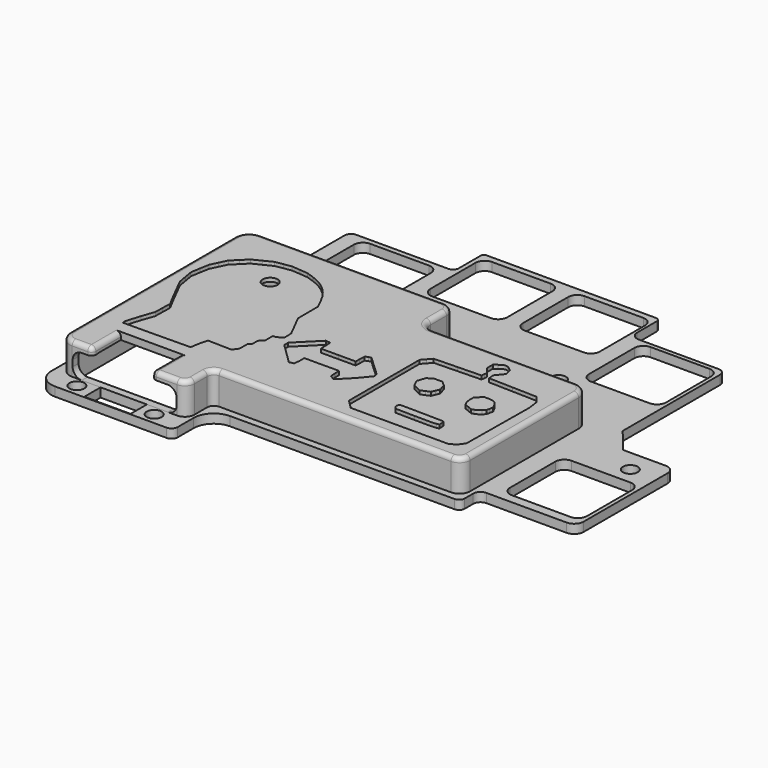
from build123d import *

# Parameters (mm, degrees)
SKETCH_R        = 1.65
SKETCH_W        = 10.23
SKETCH_H        = 4.5
PAD005_DEPTH    = 2
PAD006_DEPTH    = 7
POCKET001_DEPTH = 7.4
SKETCH014_W     = 13.165012
SKETCH014_H     = 8.795712
POCKET002_DEPTH = 2
SKETCH015_R     = 1.65
POCKET003_DEPTH = 2
POCKET004_DEPTH = 2
FILLET004_R     = 1
FILLET005_R     = 1
FILLET006_R     = 1
POCKET005_DEPTH = 0.8
POCKET006_DEPTH = 0.8
POCKET007_DEPTH = 0.8


with BuildPart() as part:
    # Sketch → Pad005 (new body)
    with BuildSketch(Plane.XY):
        with BuildLine():
            Line((-49.610863, 7.214964), (-49.610863, 25.112694))
            ThreePointArc((-48.178773, 26.544784), (-49.191414, 26.125334), (-49.610863, 25.112694))
            Line((-48.178773, 26.544784), (-27.808412, 26.544784))
            ThreePointArc((-27.808412, 26.544784), (-26.912185, 26.916014), (-26.540955, 27.812241))
            Line((-26.540955, 27.812241), (-26.540955, 33.930279))
            ThreePointArc((-25.87702, 34.594214), (-26.346493, 34.399752), (-26.540955, 33.930279))
            Line((-25.87702, 34.594214), (11.597838, 34.594214))
            ThreePointArc((12.512121, 33.679931), (12.244334, 34.326427), (11.597838, 34.594214))
            Line((12.512121, 33.679931), (12.512121, 28.263099))
            ThreePointArc((12.512121, 28.263099), (13.049695, 26.96528), (14.347514, 26.427706))
            Line((14.347514, 26.427706), (32.003551, 26.427706))
            ThreePointArc((33.520552, 24.910705), (33.076233, 25.983387), (32.003551, 26.427706))
            Line((33.520552, 24.910705), (33.520552, -1.974196))
            Line((33.520552, -1.974196), (38.002038, -7.483418))
            Line((38.002038, -7.483418), (47.421181, -7.483418))
            ThreePointArc((49.44413, -9.506367), (48.851622, -8.075926), (47.421181, -7.483418))
            Line((49.44413, -9.506367), (49.44413, -32.682031))
            ThreePointArc((47.368229, -34.757932), (48.836113, -34.149915), (49.44413, -32.682031))
            Line((47.368229, -34.757932), (29.607009, -34.757932))
            ThreePointArc((29.607009, -34.757932), (28.471434, -35.228303), (28.001063, -36.363878))
            Line((28.001063, -36.363878), (28.001063, -38.722614))
            ThreePointArc((26.753086, -39.970591), (27.635539, -39.605067), (28.001063, -38.722614))
            Line((26.753086, -39.970591), (-22.857236, -39.970591))
            ThreePointArc((-22.857236, -39.970591), (-26.03119, -41.285286), (-27.345885, -44.459241))
            Line((-27.345885, -44.459241), (-27.345885, -48.820324))
            ThreePointArc((-28.718373, -50.192812), (-27.747877, -49.79082), (-27.345885, -48.820324))
            Line((-28.718373, -50.192812), (-53.401439, -50.192812))
            ThreePointArc((-57.461259, -46.132992), (-56.272165, -49.003718), (-53.401439, -50.192812))
            Line((-57.461259, -46.132992), (-57.461259, 3.345083))
            ThreePointArc((-53.591378, 7.214964), (-56.327797, 6.081502), (-57.461259, 3.345083))
            Line((-53.591378, 7.214964), (-49.610863, 7.214964))
        make_face()
        with Locations((-33.495979, -47.631935)):
            Circle(SKETCH_R, mode=Mode.SUBTRACT)
        with Locations((-50.583614, -47.630238)):
            Circle(SKETCH_R, mode=Mode.SUBTRACT)
        with Locations((-25.119429, 12.315305)):
            Circle(SKETCH_R, mode=Mode.SUBTRACT)
        with Locations((-5.602204, 2.953984)):
            Circle(SKETCH_R, mode=Mode.SUBTRACT)
        with Locations((12.850342, 6.121297)):
            Circle(SKETCH_R, mode=Mode.SUBTRACT)
        with Locations((43.548248, -12.411167)):
            Circle(SKETCH_R, mode=Mode.SUBTRACT)
        with BuildLine():
            Line((-25.569097, 31.246939), (-25.569097, 18.746939))
            ThreePointArc((-25.569097, 18.746939), (-24.983311, 17.332725), (-23.569097, 16.746939))
            Line((-23.569097, 16.746939), (-10.569097, 16.746939))
            ThreePointArc((-10.569097, 16.746939), (-9.154883, 17.332725), (-8.569097, 18.746939))
            Line((-8.569097, 18.746939), (-8.569097, 31.246939))
            ThreePointArc((-8.569097, 31.246939), (-9.154883, 32.661153), (-10.569097, 33.246939))
            Line((-10.569097, 33.246939), (-23.569097, 33.246939))
            ThreePointArc((-23.569097, 33.246939), (-24.983311, 32.661153), (-25.569097, 31.246939))
        make_face(mode=Mode.SUBTRACT)
        with BuildLine():
            Line((-5.091705, 31.241793), (-5.091705, 18.741793))
            ThreePointArc((-5.091705, 18.741793), (-4.505919, 17.327579), (-3.091705, 16.741793))
            Line((-3.091705, 16.741793), (9.908295, 16.741793))
            ThreePointArc((9.908295, 16.741793), (11.322509, 17.327579), (11.908295, 18.741793))
            Line((11.908295, 18.741793), (11.908295, 31.241793))
            ThreePointArc((11.908295, 31.241793), (11.322509, 32.656007), (9.908295, 33.241793))
            Line((9.908295, 33.241793), (-3.091705, 33.241793))
            ThreePointArc((-3.091705, 33.241793), (-4.505919, 32.656007), (-5.091705, 31.241793))
        make_face(mode=Mode.SUBTRACT)
        with BuildLine():
            Line((15.715605, 23.508312), (15.715605, 11.008312))
            ThreePointArc((15.715605, 11.008312), (16.301391, 9.594098), (17.715605, 9.008312))
            Line((17.715605, 9.008312), (30.715605, 9.008312))
            ThreePointArc((30.715605, 9.008312), (32.129819, 9.594098), (32.715605, 11.008312))
            Line((32.715605, 11.008312), (32.715605, 23.508312))
            ThreePointArc((32.715605, 23.508312), (32.129819, 24.922526), (30.715605, 25.508312))
            Line((30.715605, 25.508312), (17.715605, 25.508312))
            ThreePointArc((17.715605, 25.508312), (16.301391, 24.922526), (15.715605, 23.508312))
        make_face(mode=Mode.SUBTRACT)
        with BuildLine():
            Line((31.597702, -18.197321), (31.597702, -30.697321))
            ThreePointArc((31.597702, -30.697321), (32.183488, -32.111535), (33.597702, -32.697321))
            Line((33.597702, -32.697321), (46.597702, -32.697321))
            ThreePointArc((46.597702, -32.697321), (48.011916, -32.111535), (48.597702, -30.697321))
            Line((48.597702, -30.697321), (48.597702, -18.197321))
            ThreePointArc((48.597702, -18.197321), (48.011916, -16.783107), (46.597702, -16.197321))
            Line((46.597702, -16.197321), (33.597702, -16.197321))
            ThreePointArc((33.597702, -16.197321), (32.183488, -16.783107), (31.597702, -18.197321))
        make_face(mode=Mode.SUBTRACT)
        with BuildLine():
            Line((-46.207882, 23.417641), (-46.207882, 10.917641))
            ThreePointArc((-46.207882, 10.917641), (-45.622096, 9.503427), (-44.207882, 8.917641))
            Line((-44.207882, 8.917641), (-31.207882, 8.917641))
            ThreePointArc((-31.207882, 8.917641), (-29.793668, 9.503427), (-29.207882, 10.917641))
            Line((-29.207882, 10.917641), (-29.207882, 23.417641))
            ThreePointArc((-29.207882, 23.417641), (-29.793668, 24.831855), (-31.207882, 25.417641))
            Line((-31.207882, 25.417641), (-44.207882, 25.417641))
            ThreePointArc((-44.207882, 25.417641), (-45.622096, 24.831855), (-46.207882, 23.417641))
        make_face(mode=Mode.SUBTRACT)
        with Locations((-41.897928, -47.794848)):
            Rectangle(SKETCH_W, SKETCH_H, mode=Mode.SUBTRACT)
    extrude(amount=PAD005_DEPTH)

    # Sketch012 (on Face83 of Pad005) → Pad006 (join)
    with BuildSketch(Plane.XY.offset(2)):
        with BuildLine():
            Line((-55.983754, -42.848348), (-55.983754, 2.609413))
            ThreePointArc((-52.704333, 5.888834), (-55.023234, 4.928314), (-55.983754, 2.609413))
            Line((-52.704333, 5.888834), (-12.167265, 5.888834))
            ThreePointArc((-9.912146, 3.633715), (-10.572655, 5.228325), (-12.167265, 5.888834))
            Line((-9.912146, 3.633715), (-9.912146, -0.730246))
            ThreePointArc((-9.912146, -0.730246), (-9.159025, -2.548441), (-7.34083, -3.301562))
            Line((-7.34083, -3.301562), (24.292931, -3.301562))
            ThreePointArc((27.059417, -6.068049), (26.249132, -4.111847), (24.292931, -3.301562))
            Line((27.059417, -6.068049), (27.059417, -36.048945))
            ThreePointArc((24.708691, -38.399671), (26.370906, -37.71116), (27.059417, -36.048945))
            Line((24.708691, -38.399671), (-26.508307, -38.399671))
            ThreePointArc((-26.508307, -38.399671), (-27.553711, -38.832692), (-27.986731, -39.878095))
            Line((-27.986731, -39.878095), (-27.986731, -43.400929))
            ThreePointArc((-30.114702, -45.5289), (-28.609999, -44.905632), (-27.986731, -43.400929))
            Line((-53.303202, -45.5289), (-30.114702, -45.5289))
            ThreePointArc((-55.983754, -42.848348), (-55.198638, -44.743784), (-53.303202, -45.5289))
        make_face()
    extrude(amount=PAD006_DEPTH)

    # Sketch013 (on Face4 of Pad006) → Pocket001 (cut)
    with BuildSketch(Plane(origin=(0, 0, 0), x_dir=(1, 0, 0), z_dir=(0, 0, -1))):
        Polygon((-51.690899, 43.905302), (-54.332726, 43.905302), (-54.332726, -4.368984), (-11.493267, -4.368984), (-11.493267, 4.906889), (25.520232, 4.906889), (25.520232, 36.730296), (-29.689493, 36.730296), (-29.689493, 43.905302), align=None)
    extrude(amount=-POCKET001_DEPTH, mode=Mode.SUBTRACT)

    # Sketch014 (on Face110 of Pocket001) → Pocket002 (cut)
    with BuildSketch(Plane.XY.offset(9)):
        with Locations((-42.274277, -42.0399)):
            Rectangle(SKETCH014_W, SKETCH014_H)
    extrude(amount=-POCKET002_DEPTH, mode=Mode.SUBTRACT)

    # Sketch015 (on Face113 of Pocket002) → Pocket003 (cut)
    with BuildSketch(Plane.XY.offset(9)):
        with Locations((-41.294807, -5.844272)):
            Circle(SKETCH015_R)
    extrude(amount=-POCKET003_DEPTH, mode=Mode.SUBTRACT)

    # Sketch016 (on Face94 of Pocket003) → Pocket004 (cut)
    with BuildSketch(Plane.XZ.offset(45.5289)):
        with BuildLine():
            Line((-53.204343, 5.334337), (-53.204343, 3.981198))
            ThreePointArc((-53.204343, 3.981198), (-52.618556, 2.566984), (-51.204343, 1.981198))
            Line((-51.204343, 1.981198), (-32.204343, 1.981198))
            ThreePointArc((-32.204343, 1.981198), (-30.790129, 2.566984), (-30.204343, 3.981198))
            Line((-30.204343, 3.981198), (-30.204343, 5.334337))
            ThreePointArc((-30.204343, 5.334337), (-30.790129, 6.74855), (-32.204343, 7.334337))
            Line((-32.204343, 7.334337), (-51.204343, 7.334337))
            ThreePointArc((-51.204343, 7.334337), (-52.618556, 6.74855), (-53.204343, 5.334337))
        make_face()
    extrude(amount=-POCKET004_DEPTH, mode=Mode.SUBTRACT)

    # Fillet004
    fillet004_edges = [part.edges().sort_by_distance(p)[0] for p in [
        (-48.856783, -45.5289, 8.167168),
    ]]
    fillet(fillet004_edges, radius=FILLET004_R)

    # Fillet005
    fillet005_edges = [part.edges().sort_by_distance(p)[0] for p in [
        (-35.691771, -45.5289, 8.167168),
    ]]
    fillet(fillet005_edges, radius=FILLET005_R)

    # Fillet006
    fillet006_edges = [part.edges().sort_by_distance(p)[0] for p in [
        (-0.899808, -38.399671, 9),
    ]]
    fillet(fillet006_edges, radius=FILLET006_R)

    # Sketch020 (on Face1 of Fillet006) → Pocket005 (cut)
    with BuildSketch(Plane.XY.offset(9)):
        with BuildLine():
            add(Edge.make_bspline(
                [(-42.7549, -0.380123), (-44.4451, -0.656723)],
                knots=[0, 0, 1, 1], degree=1))
            add(Edge.make_bspline(
                [(-44.4451, -0.656723), (-46.3507, -1.60946)],
                knots=[0, 0, 1, 1], degree=1))
            add(Edge.make_bspline(
                [(-46.3507, -1.60946), (-48.2561, -2.53154)],
                knots=[0, 0, 1, 1], degree=1))
            add(Edge.make_bspline(
                [(-48.2561, -2.53154), (-49.6391, -3.91457)],
                knots=[0, 0, 1, 1], degree=1))
            add(Edge.make_bspline(
                [(-49.6391, -3.91457), (-51.0221, -5.26685)],
                knots=[0, 0, 1, 1], degree=1))
            add(Edge.make_bspline(
                [(-51.0221, -5.26685), (-51.8214, -6.92652)],
                knots=[0, 0, 1, 1], degree=1))
            add(Edge.make_bspline(
                [(-51.8214, -6.92652), (-52.6203, -8.58609)],
                knots=[0, 0, 1, 1], degree=1))
            add(Edge.make_bspline(
                [(-52.6203, -8.58609), (-52.9892, -10.6145)],
                knots=[0, 0, 1, 1], degree=1))
            add(Edge.make_bspline(
                [(-52.9892, -10.6145), (-53.3272, -12.6429)],
                knots=[0, 0, 1, 1], degree=1))
            add(Edge.make_bspline(
                [(-53.3272, -12.6429), (-52.9892, -14.6098)],
                knots=[0, 0, 1, 1], degree=1))
            add(Edge.make_bspline(
                [(-52.9892, -14.6098), (-52.6511, -16.5767)],
                knots=[0, 0, 1, 1], degree=1))
            add(Edge.make_bspline(
                [(-52.6511, -16.5767), (-51.7598, -18.3594)],
                knots=[0, 0, 1, 1], degree=1))
            add(Edge.make_bspline(
                [(-51.7598, -18.3594), (-51.2682, -19.3736), (-50.4075, -21.0641), (-49.8237, -22.1704)],
                knots=[0, 0, 0, 0, 1, 1, 1, 1], degree=3))
            add(Edge.make_bspline(
                [(-49.8237, -22.1704), (-48.7479, -24.168)],
                knots=[0, 0, 1, 1], degree=1))
            add(Edge.make_bspline(
                [(-48.7479, -24.168), (-48.8094, -26.1659)],
                knots=[0, 0, 1, 1], degree=1))
            add(Edge.make_bspline(
                [(-48.8094, -26.1659), (-48.8402, -28.1635)],
                knots=[0, 0, 1, 1], degree=1))
            add(Edge.make_bspline(
                [(-48.8402, -28.1635), (-49.7928, -30.8988)],
                knots=[0, 0, 1, 1], degree=1))
            add(Edge.make_bspline(
                [(-49.7928, -30.8988), (-50.3153, -32.4355), (-50.7456, -33.9109), (-50.7456, -34.2181)],
                knots=[0, 0, 0, 0, 1, 1, 1, 1], degree=3))
            add(Edge.make_bspline(
                [(-50.7456, -34.2181), (-50.7456, -34.7713)],
                knots=[0, 0, 1, 1], degree=1))
            add(Edge.make_bspline(
                [(-50.7456, -34.7713), (-43.2773, -34.7098)],
                knots=[0, 0, 1, 1], degree=1))
            add(Edge.make_bspline(
                [(-43.2773, -34.7098), (-35.8396, -34.6176)],
                knots=[0, 0, 1, 1], degree=1))
            add(Edge.make_bspline(
                [(-35.8396, -34.6176), (-35.7475, -33.8493)],
                knots=[0, 0, 1, 1], degree=1))
            add(Edge.make_bspline(
                [(-35.7475, -33.8493), (-35.7166, -33.419), (-35.5323, -32.5584), (-35.3786, -31.9437)],
                knots=[0, 0, 0, 0, 1, 1, 1, 1], degree=3))
            add(Edge.make_bspline(
                [(-35.3786, -31.9437), (-35.0714, -30.8067)],
                knots=[0, 0, 1, 1], degree=1))
            add(Edge.make_bspline(
                [(-35.0714, -30.8067), (-32.4282, -30.868)],
                knots=[0, 0, 1, 1], degree=1))
            add(Edge.make_bspline(
                [(-32.4282, -30.868), (-29.8157, -30.9295)],
                knots=[0, 0, 1, 1], degree=1))
            add(Edge.make_bspline(
                [(-29.8157, -30.9295), (-29.3548, -30.3456)],
                knots=[0, 0, 1, 1], degree=1))
            add(Edge.make_bspline(
                [(-29.3548, -30.3456), (-28.9246, -29.731)],
                knots=[0, 0, 1, 1], degree=1))
            add(Edge.make_bspline(
                [(-28.9246, -29.731), (-28.9246, -28.5938)],
                knots=[0, 0, 1, 1], degree=1))
            add(Edge.make_bspline(
                [(-28.9246, -28.5938), (-28.9246, -27.4259)],
                knots=[0, 0, 1, 1], degree=1))
            add(Edge.make_bspline(
                [(-28.9246, -27.4259), (-28.6171, -27.2414)],
                knots=[0, 0, 1, 1], degree=1))
            add(Edge.make_bspline(
                [(-28.6171, -27.2414), (-28.3099, -27.0571)],
                knots=[0, 0, 1, 1], degree=1))
            add(Edge.make_bspline(
                [(-28.3099, -27.0571), (-28.3099, -26.2888)],
                knots=[0, 0, 1, 1], degree=1))
            add(Edge.make_bspline(
                [(-28.3099, -26.2888), (-28.3099, -25.5204)],
                knots=[0, 0, 1, 1], degree=1))
            add(Edge.make_bspline(
                [(-28.3099, -25.5204), (-27.8488, -25.0595)],
                knots=[0, 0, 1, 1], degree=1))
            add(Edge.make_bspline(
                [(-27.8488, -25.0595), (-27.3878, -24.5984)],
                knots=[0, 0, 1, 1], degree=1))
            add(Edge.make_bspline(
                [(-27.3878, -24.5984), (-27.3878, -23.5228)],
                knots=[0, 0, 1, 1], degree=1))
            add(Edge.make_bspline(
                [(-27.3878, -23.5228), (-27.3878, -22.4777)],
                knots=[0, 0, 1, 1], degree=1))
            add(Edge.make_bspline(
                [(-27.3878, -22.4777), (-26.9882, -22.4777)],
                knots=[0, 0, 1, 1], degree=1))
            add(Edge.make_bspline(
                [(-26.9882, -22.4777), (-26.7732, -22.4777), (-26.3429, -22.2934), (-26.0047, -22.0475)],
                knots=[0, 0, 0, 0, 1, 1, 1, 1], degree=3))
            add(Edge.make_bspline(
                [(-26.0047, -22.0475), (-25.4515, -21.6478)],
                knots=[0, 0, 1, 1], degree=1))
            add(Edge.make_bspline(
                [(-25.4515, -21.6478), (-25.4823, -20.7258)],
                knots=[0, 0, 1, 1], degree=1))
            add(Edge.make_bspline(
                [(-25.4823, -20.7258), (-25.5129, -19.7731)],
                knots=[0, 0, 1, 1], degree=1))
            add(Edge.make_bspline(
                [(-25.5129, -19.7731), (-26.8038, -17.2222)],
                knots=[0, 0, 1, 1], degree=1))
            add(Edge.make_bspline(
                [(-26.8038, -17.2222), (-28.1254, -14.6405)],
                knots=[0, 0, 1, 1], degree=1))
            add(Edge.make_bspline(
                [(-28.1254, -14.6405), (-28.1561, -11.8745)],
                knots=[0, 0, 1, 1], degree=1))
            add(Edge.make_bspline(
                [(-28.1561, -11.8745), (-28.1561, -9.10859)],
                knots=[0, 0, 1, 1], degree=1))
            add(Edge.make_bspline(
                [(-28.1561, -9.10859), (-28.9861, -7.35669)],
                knots=[0, 0, 1, 1], degree=1))
            add(Edge.make_bspline(
                [(-28.9861, -7.35669), (-30.5228, -4.09893), (-32.7047, -2.03975), (-35.7782, -0.964083)],
                knots=[0, 0, 0, 0, 1, 1, 1, 1], degree=3))
            add(Edge.make_bspline(
                [(-35.7782, -0.964083), (-37.3763, -0.410873)],
                knots=[0, 0, 1, 1], degree=1))
            add(Edge.make_bspline(
                [(-37.3763, -0.410873), (-39.2204, -0.257203)],
                knots=[0, 0, 1, 1], degree=1))
            add(Edge.make_bspline(
                [(-39.2204, -0.257203), (-41.0644, -0.103523)],
                knots=[0, 0, 1, 1], degree=1))
            add(Edge.make_bspline(
                [(-41.0644, -0.103523), (-42.7549, -0.380123)],
                knots=[0, 0, 1, 1], degree=1))
        make_face()
    extrude(amount=-POCKET005_DEPTH, mode=Mode.SUBTRACT)

    # Sketch021 (on Face1 of Fillet006) → Pocket006 (cut)
    with BuildSketch(Plane.XY.offset(9)):
        with BuildLine():
            add(Edge.make_bspline(
                [(-21.4463, -20.4522), (-23.7717, -22.7777)],
                knots=[0, 0, 1, 1], degree=1))
            add(Edge.make_bspline(
                [(-23.7717, -22.7777), (-23.7717, -23.3327)],
                knots=[0, 0, 1, 1], degree=1))
            add(Edge.make_bspline(
                [(-23.7717, -23.3327), (-23.7717, -23.8611)],
                knots=[0, 0, 1, 1], degree=1))
            add(Edge.make_bspline(
                [(-23.7717, -23.8611), (-21.4198, -26.1602)],
                knots=[0, 0, 1, 1], degree=1))
            add(Edge.make_bspline(
                [(-21.4198, -26.1602), (-19.068, -28.4593)],
                knots=[0, 0, 1, 1], degree=1))
            add(Edge.make_bspline(
                [(-19.068, -28.4593), (-18.645, -28.3008)],
                knots=[0, 0, 1, 1], degree=1))
            add(Edge.make_bspline(
                [(-18.645, -28.3008), (-18.120412, -28.186866)],
                knots=[0, 0, 1, 1], degree=1))
            add(Edge.make_bspline(
                [(-18.120412, -28.186866), (-17.977004, -26.892066)],
                knots=[0, 0, 1, 1], degree=1))
            add(Edge.make_bspline(
                [(-17.977004, -26.892066), (-17.997494, -25.547403)],
                knots=[0, 0, 1, 1], degree=1))
            add(Edge.make_bspline(
                [(-17.997494, -25.547403), (-14.1262, -25.5525)],
                knots=[0, 0, 1, 1], degree=1))
            add(Edge.make_bspline(
                [(-14.1262, -25.5525), (-10.304438, -25.525351)],
                knots=[0, 0, 1, 1], degree=1))
            add(Edge.make_bspline(
                [(-10.304438, -25.525351), (-10.284073, -26.716724)],
                knots=[0, 0, 1, 1], degree=1))
            add(Edge.make_bspline(
                [(-10.284073, -26.716724), (-10.212793, -27.897917)],
                knots=[0, 0, 1, 1], degree=1))
            add(Edge.make_bspline(
                [(-10.212793, -27.897917), (-9.66016, -28.1951)],
                knots=[0, 0, 1, 1], degree=1))
            add(Edge.make_bspline(
                [(-9.66016, -28.1951), (-9.26375, -28.5122)],
                knots=[0, 0, 1, 1], degree=1))
            add(Edge.make_bspline(
                [(-9.26375, -28.5122), (-8.92021, -28.2744)],
                knots=[0, 0, 1, 1], degree=1))
            add(Edge.make_bspline(
                [(-8.92021, -28.2744), (-8.7088, -28.1687), (-7.5725, -27.0323), (-6.35688, -25.7638)],
                knots=[0, 0, 0, 0, 1, 1, 1, 1], degree=3))
            add(Edge.make_bspline(
                [(-6.35688, -25.7638), (-4.367929, -23.366621)],
                knots=[0, 0, 1, 1], degree=1))
            add(Edge.make_bspline(
                [(-4.367929, -23.366621), (-4.3485, -22.9363)],
                knots=[0, 0, 1, 1], degree=1))
            add(Edge.make_bspline(
                [(-4.3485, -22.9363), (-4.50702, -22.4077)],
                knots=[0, 0, 1, 1], degree=1))
            add(Edge.make_bspline(
                [(-4.50702, -22.4077), (-6.77966, -20.2937)],
                knots=[0, 0, 1, 1], degree=1))
            add(Edge.make_bspline(
                [(-6.77966, -20.2937), (-9.02591, -18.1795)],
                knots=[0, 0, 1, 1], degree=1))
            add(Edge.make_bspline(
                [(-9.02591, -18.1795), (-9.569726, -18.313015)],
                knots=[0, 0, 1, 1], degree=1))
            add(Edge.make_bspline(
                [(-9.569726, -18.313015), (-10.218163, -18.565563)],
                knots=[0, 0, 1, 1], degree=1))
            add(Edge.make_bspline(
                [(-10.218163, -18.565563), (-10.265943, -19.896568)],
                knots=[0, 0, 1, 1], degree=1))
            add(Edge.make_bspline(
                [(-10.265943, -19.896568), (-10.293246, -20.975021)],
                knots=[0, 0, 1, 1], degree=1))
            add(Edge.make_bspline(
                [(-10.293246, -20.975021), (-14.093158, -20.982638)],
                knots=[0, 0, 1, 1], degree=1))
            add(Edge.make_bspline(
                [(-14.093158, -20.982638), (-17.991613, -20.98373)],
                knots=[0, 0, 1, 1], degree=1))
            add(Edge.make_bspline(
                [(-17.991613, -20.98373), (-18.006469, -19.695172)],
                knots=[0, 0, 1, 1], degree=1))
            add(Edge.make_bspline(
                [(-18.006469, -19.695172), (-18.094521, -18.240702)],
                knots=[0, 0, 1, 1], degree=1))
            add(Edge.make_bspline(
                [(-18.094521, -18.240702), (-18.7508, -18.206)],
                knots=[0, 0, 1, 1], degree=1))
            add(Edge.make_bspline(
                [(-18.7508, -18.206), (-19.1472, -18.1531)],
                knots=[0, 0, 1, 1], degree=1))
            add(Edge.make_bspline(
                [(-19.1472, -18.1531), (-21.4463, -20.4522)],
                knots=[0, 0, 1, 1], degree=1))
        make_face()
    extrude(amount=-POCKET006_DEPTH, mode=Mode.SUBTRACT)

    # Sketch022 (on Face1 of Fillet006) → Pocket007 (cut)
    with BuildSketch(Plane.XY.offset(9)):
        with BuildLine():
            add(Edge.make_bspline(
                [(9.68726, -6.58937), (8.95346, -7.15377)],
                knots=[0, 0, 1, 1], degree=1))
            add(Edge.make_bspline(
                [(8.95346, -7.15377), (8.95346, -7.94401)],
                knots=[0, 0, 1, 1], degree=1))
            add(Edge.make_bspline(
                [(8.95346, -7.94401), (8.95346, -8.73425)],
                knots=[0, 0, 1, 1], degree=1))
            add(Edge.make_bspline(
                [(8.95346, -8.73425), (9.54616, -9.49625)],
                knots=[0, 0, 1, 1], degree=1))
            add(Edge.make_bspline(
                [(9.54616, -9.49625), (10.1106, -10.23)],
                knots=[0, 0, 1, 1], degree=1))
            add(Edge.make_bspline(
                [(10.1106, -10.23), (10.0259, -10.8509)],
                knots=[0, 0, 1, 1], degree=1))
            add(Edge.make_bspline(
                [(10.0259, -10.8509), (9.94131, -11.5)],
                knots=[0, 0, 1, 1], degree=1))
            add(Edge.make_bspline(
                [(9.94131, -11.5), (4.77651, -11.6411)],
                knots=[0, 0, 1, 1], degree=1))
            add(Edge.make_bspline(
                [(4.77651, -11.6411), (-0.41639, -11.7822)],
                knots=[0, 0, 1, 1], degree=1))
            add(Edge.make_bspline(
                [(-0.41639, -11.7822), (-1.23479, -12.7135)],
                knots=[0, 0, 1, 1], degree=1))
            add(Edge.make_bspline(
                [(-1.23479, -12.7135), (-2.05329, -13.6166)],
                knots=[0, 0, 1, 1], degree=1))
            add(Edge.make_bspline(
                [(-2.05329, -13.6166), (-2.05329, -23.3815)],
                knots=[0, 0, 1, 1], degree=1))
            add(Edge.make_bspline(
                [(-2.05329, -23.3815), (-2.05329, -33.1465)],
                knots=[0, 0, 1, 1], degree=1))
            add(Edge.make_bspline(
                [(-2.05329, -33.1465), (-1.09369, -34.106)],
                knots=[0, 0, 1, 1], degree=1))
            add(Edge.make_bspline(
                [(-1.09369, -34.106), (-0.134189, -35.0655)],
                knots=[0, 0, 1, 1], degree=1))
            add(Edge.make_bspline(
                [(-0.134189, -35.0655), (10.6186, -35.0655)],
                knots=[0, 0, 1, 1], degree=1))
            add(Edge.make_bspline(
                [(10.6186, -35.0655), (21.3426, -35.0655)],
                knots=[0, 0, 1, 1], degree=1))
            add(Edge.make_bspline(
                [(21.3426, -35.0655), (22.0482, -34.7269)],
                knots=[0, 0, 1, 1], degree=1))
            add(Edge.make_bspline(
                [(22.0482, -34.7269), (22.4434, -34.5575), (23.0082, -34.0777), (23.2618, -33.6826)],
                knots=[0, 0, 0, 0, 1, 1, 1, 1], degree=3))
            add(Edge.make_bspline(
                [(23.2618, -33.6826), (23.7698, -32.9489)],
                knots=[0, 0, 1, 1], degree=1))
            add(Edge.make_bspline(
                [(23.7698, -32.9489), (23.8546, -24.3411)],
                knots=[0, 0, 1, 1], degree=1))
            add(Edge.make_bspline(
                [(23.8546, -24.3411), (23.9394, -15.7333)],
                knots=[0, 0, 1, 1], degree=1))
            add(Edge.make_bspline(
                [(23.9394, -15.7333), (23.7698, -14.5197)],
                knots=[0, 0, 1, 1], degree=1))
            add(Edge.make_bspline(
                [(23.7698, -14.5197), (23.601, -13.3345)],
                knots=[0, 0, 1, 1], degree=1))
            add(Edge.make_bspline(
                [(23.601, -13.3345), (22.9234, -12.5442)],
                knots=[0, 0, 1, 1], degree=1))
            add(Edge.make_bspline(
                [(22.9234, -12.5442), (22.2746, -11.7822)],
                knots=[0, 0, 1, 1], degree=1))
            add(Edge.make_bspline(
                [(22.2746, -11.7822), (16.9404, -11.6411)],
                knots=[0, 0, 1, 1], degree=1))
            add(Edge.make_bspline(
                [(16.9404, -11.6411), (11.6346, -11.5)],
                knots=[0, 0, 1, 1], degree=1))
            add(Edge.make_bspline(
                [(11.6346, -11.5), (11.5499, -10.8509)],
                knots=[0, 0, 1, 1], degree=1))
            add(Edge.make_bspline(
                [(11.5499, -10.8509), (11.4653, -10.23)],
                knots=[0, 0, 1, 1], degree=1))
            add(Edge.make_bspline(
                [(11.4653, -10.23), (12.199, -9.32689)],
                knots=[0, 0, 1, 1], degree=1))
            add(Edge.make_bspline(
                [(12.199, -9.32689), (12.9328, -8.45201)],
                knots=[0, 0, 1, 1], degree=1))
            add(Edge.make_bspline(
                [(12.9328, -8.45201), (12.7635, -7.71825)],
                knots=[0, 0, 1, 1], degree=1))
            add(Edge.make_bspline(
                [(12.7635, -7.71825), (12.5942, -6.98449)],
                knots=[0, 0, 1, 1], degree=1))
            add(Edge.make_bspline(
                [(12.5942, -6.98449), (12.0015, -6.47649)],
                knots=[0, 0, 1, 1], degree=1))
            add(Edge.make_bspline(
                [(12.0015, -6.47649), (11.2395, -5.85553), (10.6186, -5.85553), (9.68726, -6.58937)],
                knots=[0, 0, 0, 0, 1, 1, 1, 1], degree=3))
        make_face()
        with BuildLine():
            add(Edge.make_bspline(
                [(6.6302, -17.9813), (7.17666, -18.4496)],
                knots=[0, 0, 1, 1], degree=1))
            add(Edge.make_bspline(
                [(7.17666, -18.4496), (7.41084, -19.2563)],
                knots=[0, 0, 1, 1], degree=1))
            add(Edge.make_bspline(
                [(7.41084, -19.2563), (7.64502, -20.0629)],
                knots=[0, 0, 1, 1], degree=1))
            add(Edge.make_bspline(
                [(7.64502, -20.0629), (7.28066, -20.8956)],
                knots=[0, 0, 1, 1], degree=1))
            add(Edge.make_bspline(
                [(7.28066, -20.8956), (6.94247, -21.7282)],
                knots=[0, 0, 1, 1], degree=1))
            add(Edge.make_bspline(
                [(6.94247, -21.7282), (6.00574, -22.1184)],
                knots=[0, 0, 1, 1], degree=1))
            add(Edge.make_bspline(
                [(6.00574, -22.1184), (5.04287, -22.5089)],
                knots=[0, 0, 1, 1], degree=1))
            add(Edge.make_bspline(
                [(5.04287, -22.5089), (4.10613, -22.0405)],
                knots=[0, 0, 1, 1], degree=1))
            add(Edge.make_bspline(
                [(4.10613, -22.0405), (3.14339, -21.5721)],
                knots=[0, 0, 1, 1], degree=1))
            add(Edge.make_bspline(
                [(3.14339, -21.5721), (2.80512, -20.8434)],
                knots=[0, 0, 1, 1], degree=1))
            add(Edge.make_bspline(
                [(2.80512, -20.8434), (2.46684, -20.1149)],
                knots=[0, 0, 1, 1], degree=1))
            add(Edge.make_bspline(
                [(2.46684, -20.1149), (2.75311, -19.2303)],
                knots=[0, 0, 1, 1], degree=1))
            add(Edge.make_bspline(
                [(2.75311, -19.2303), (3.0653, -18.3195)],
                knots=[0, 0, 1, 1], degree=1))
            add(Edge.make_bspline(
                [(3.0653, -18.3195), (3.61176, -17.9293)],
                knots=[0, 0, 1, 1], degree=1))
            add(Edge.make_bspline(
                [(3.61176, -17.9293), (4.15822, -17.5389)],
                knots=[0, 0, 1, 1], degree=1))
            add(Edge.make_bspline(
                [(4.15822, -17.5389), (5.12096, -17.5389)],
                knots=[0, 0, 1, 1], degree=1))
            add(Edge.make_bspline(
                [(5.12096, -17.5389), (6.08374, -17.5389)],
                knots=[0, 0, 1, 1], degree=1))
            add(Edge.make_bspline(
                [(6.08374, -17.5389), (6.6302, -17.9813)],
                knots=[0, 0, 1, 1], degree=1))
        make_face(mode=Mode.SUBTRACT)
        with BuildLine():
            add(Edge.make_bspline(
                [(17.69, -17.7741), (17.9503, -17.9303), (18.3665, -18.3986), (18.6008, -18.8409)],
                knots=[0, 0, 0, 0, 1, 1, 1, 1], degree=3))
            add(Edge.make_bspline(
                [(18.6008, -18.8409), (18.991, -19.6215)],
                knots=[0, 0, 1, 1], degree=1))
            add(Edge.make_bspline(
                [(18.991, -19.6215), (18.835, -20.3501)],
                knots=[0, 0, 1, 1], degree=1))
            add(Edge.make_bspline(
                [(18.835, -20.3501), (18.6789, -21.0787)],
                knots=[0, 0, 1, 1], degree=1))
            add(Edge.make_bspline(
                [(18.6789, -21.0787), (18.1065, -21.625)],
                knots=[0, 0, 1, 1], degree=1))
            add(Edge.make_bspline(
                [(18.1065, -21.625), (17.7942, -21.9113), (17.2738, -22.2235), (16.9615, -22.3016)],
                knots=[0, 0, 0, 0, 1, 1, 1, 1], degree=3))
            add(Edge.make_bspline(
                [(16.9615, -22.3016), (16.389, -22.4838)],
                knots=[0, 0, 1, 1], degree=1))
            add(Edge.make_bspline(
                [(16.389, -22.4838), (15.5044, -22.0935)],
                knots=[0, 0, 1, 1], degree=1))
            add(Edge.make_bspline(
                [(15.5044, -22.0935), (14.5936, -21.7292)],
                knots=[0, 0, 1, 1], degree=1))
            add(Edge.make_bspline(
                [(14.5936, -21.7292), (14.3074, -21.2089)],
                knots=[0, 0, 1, 1], degree=1))
            add(Edge.make_bspline(
                [(14.3074, -21.2089), (14.1513, -20.8966), (14.0212, -20.2721), (14.0212, -19.7777)],
                knots=[0, 0, 0, 0, 1, 1, 1, 1], degree=3))
            add(Edge.make_bspline(
                [(14.0212, -19.7777), (14.0212, -18.893)],
                knots=[0, 0, 1, 1], degree=1))
            add(Edge.make_bspline(
                [(14.0212, -18.893), (14.6717, -18.1903)],
                knots=[0, 0, 1, 1], degree=1))
            add(Edge.make_bspline(
                [(14.6717, -18.1903), (15.2962, -17.5138)],
                knots=[0, 0, 1, 1], degree=1))
            add(Edge.make_bspline(
                [(15.2962, -17.5138), (16.2329, -17.5138)],
                knots=[0, 0, 1, 1], degree=1))
            add(Edge.make_bspline(
                [(16.2329, -17.5138), (16.7533, -17.5138), (17.4039, -17.644), (17.69, -17.7741)],
                knots=[0, 0, 0, 0, 1, 1, 1, 1], degree=3))
        make_face(mode=Mode.SUBTRACT)
        with BuildLine():
            add(Edge.make_bspline(
                [(15.6621, -29.6312), (15.7402, -30.3337)],
                knots=[0, 0, 1, 1], degree=1))
            add(Edge.make_bspline(
                [(15.7402, -30.3337), (15.1618, -30.4673)],
                knots=[0, 0, 1, 1], degree=1))
            add(Edge.make_bspline(
                [(15.1618, -30.4673), (14.8034, -30.5678), (12.6176, -30.594), (10.323, -30.5357)],
                knots=[0, 0, 0, 0, 1, 1, 1, 1], degree=3))
            add(Edge.make_bspline(
                [(10.323, -30.5357), (6.08047, -30.4575)],
                knots=[0, 0, 1, 1], degree=1))
            add(Edge.make_bspline(
                [(6.08047, -30.4575), (5.74822, -30.0736)],
                knots=[0, 0, 1, 1], degree=1))
            add(Edge.make_bspline(
                [(5.74822, -30.0736), (5.54283, -29.6755)],
                knots=[0, 0, 1, 1], degree=1))
            add(Edge.make_bspline(
                [(5.54283, -29.6755), (5.64413, -29.2149)],
                knots=[0, 0, 1, 1], degree=1))
            add(Edge.make_bspline(
                [(5.64413, -29.2149), (5.88497, -28.8544)],
                knots=[0, 0, 1, 1], degree=1))
            add(Edge.make_bspline(
                [(5.88497, -28.8544), (10.7043, -28.913)],
                knots=[0, 0, 1, 1], degree=1))
            add(Edge.make_bspline(
                [(10.7043, -28.913), (15.5919, -29.0108)],
                knots=[0, 0, 1, 1], degree=1))
            add(Edge.make_bspline(
                [(15.5919, -29.0108), (15.6621, -29.6312)],
                knots=[0, 0, 1, 1], degree=1))
        make_face(mode=Mode.SUBTRACT)
    extrude(amount=-POCKET007_DEPTH, mode=Mode.SUBTRACT)


solid = part.part
